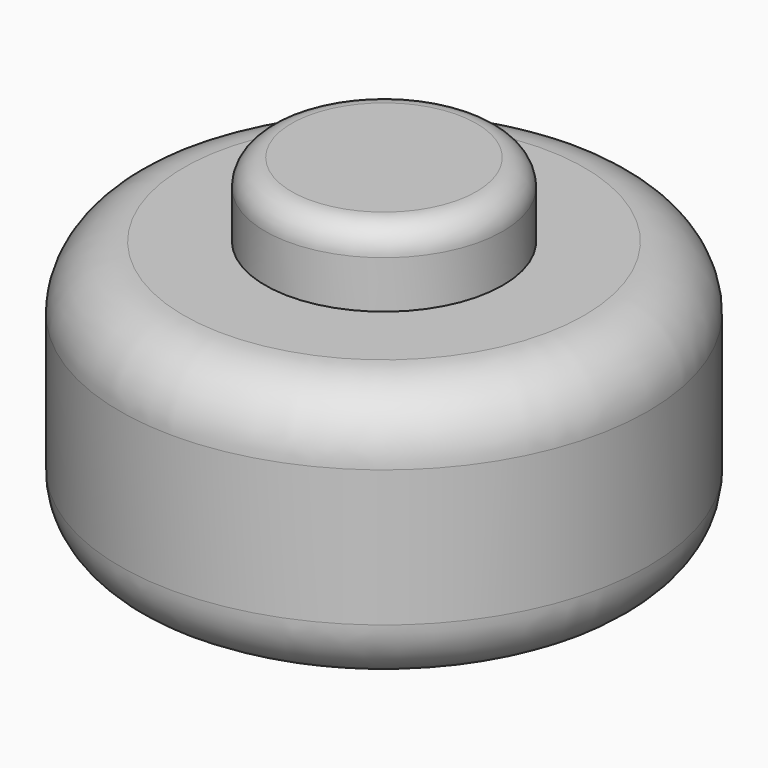
from build123d import *

# Parameters (mm, degrees)
F0_R     = 50
F1_DEPTH = 50
F2_R     = 12.071068
F3_R     = 22.5
F4_DEPTH = 14
F5_R     = 5


with BuildPart() as f1:
    # F0 (on Top) → F1 (new body)
    with BuildSketch(Plane.XY):
        Circle(F0_R)
    extrude(amount=F1_DEPTH)

    # F2
    f2_edges = [f1.edges().sort_by_distance(p)[0] for p in [
        (-50, 0, 50),
        (-50, 0, 0),
    ]]
    fillet(f2_edges, radius=F2_R)

    # F3 (on face) → F4 (join)
    with BuildSketch(Plane.XY.offset(50)):
        Circle(F3_R)
    extrude(amount=F4_DEPTH)

    # F5
    f5_edges = [f1.edges().sort_by_distance(p)[0] for p in [
        (-22.5, 0, 64),
    ]]
    fillet(f5_edges, radius=F5_R)


solid = f1.part
